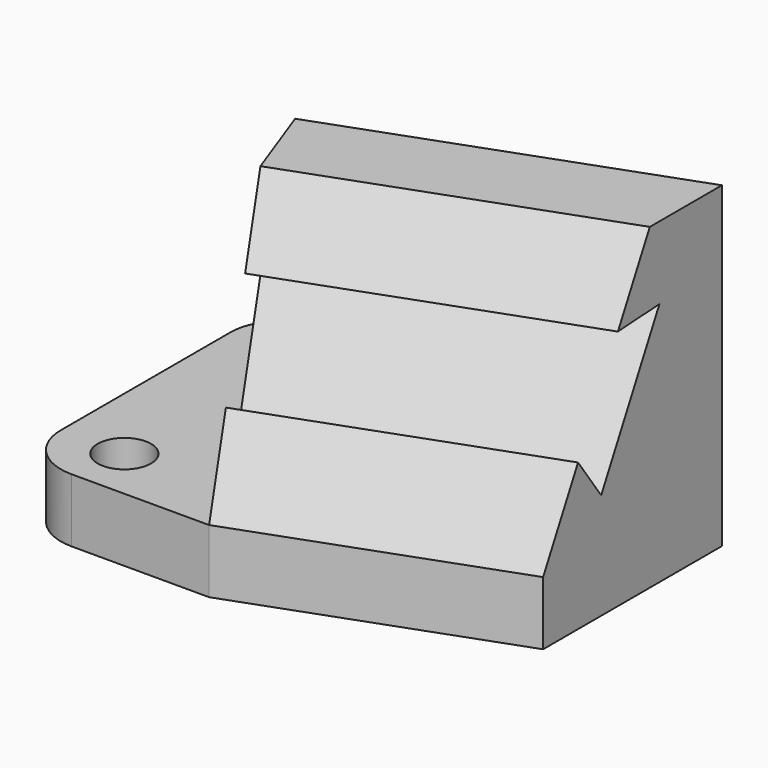
from build123d import *

# Parameters (mm, degrees)
F0_R     = 6.3
F1_DEPTH = 15
F2_DEPTH = 75
F4_DEPTH = 83.0489551508


with BuildPart() as f1:
    # F0 (on Top) → F1 (new body)
    with BuildSketch(Plane.XY):
        with BuildLine():
            Line((0, 62.5), (0, 12.5))
            ThreePointArc((0, 12.5), (3.6611652352, 3.6611652352), (12.5, 0))
            Line((12.5, 0), (45, 0))
            Line((45, 0), (28.0404697245, 46.5959264764))
            Line((28.0404697245, 46.5959264764), (106.0800203511, 75))
            Line((106.0800203511, 75), (12.5, 75))
            ThreePointArc((12.5, 75), (3.6611652352, 71.3388347648), (0, 62.5))
        make_face()
        with Locations((15, 12.5)):
            Circle(F0_R, mode=Mode.SUBTRACT)
        with Locations((15, 62.5)):
            Circle(F0_R, mode=Mode.SUBTRACT)
    extrude(amount=F1_DEPTH)

    # F0 (on Top) → F2 (join)
    with BuildSketch(Plane.XY):
        Polygon((28.0404697245, 46.5959264764), (45, 0), (106.0800203511, 22.2313093162), (106.0800203511, 75), align=None)
    extrude(amount=F2_DEPTH)

    # F3 (on face) → F4 (cut, through all)
    with BuildSketch(Plane(origin=(39.7359999702, 14.4627212179, 0), x_dir=(0.3420201433, -0.9396926208, 0), z_dir=(-0.9396926208, -0.3420201433, 0))):
        Polygon((-0.7092158589, 25.0393128685), (5.70626248, 34.6400925773), (-5.3502404503, 57.0622633677), (-16.8724987437, 57.8178407322), align=None)
        Polygon((5.70626248, 34.6400925773), (15.3909064497, 15), (15.3909064497, 75), (-14.1954427945, 75), (-5.3502404503, 57.0622633677), align=None)
    extrude(amount=-F4_DEPTH, mode=Mode.SUBTRACT)


solid = f1.part
